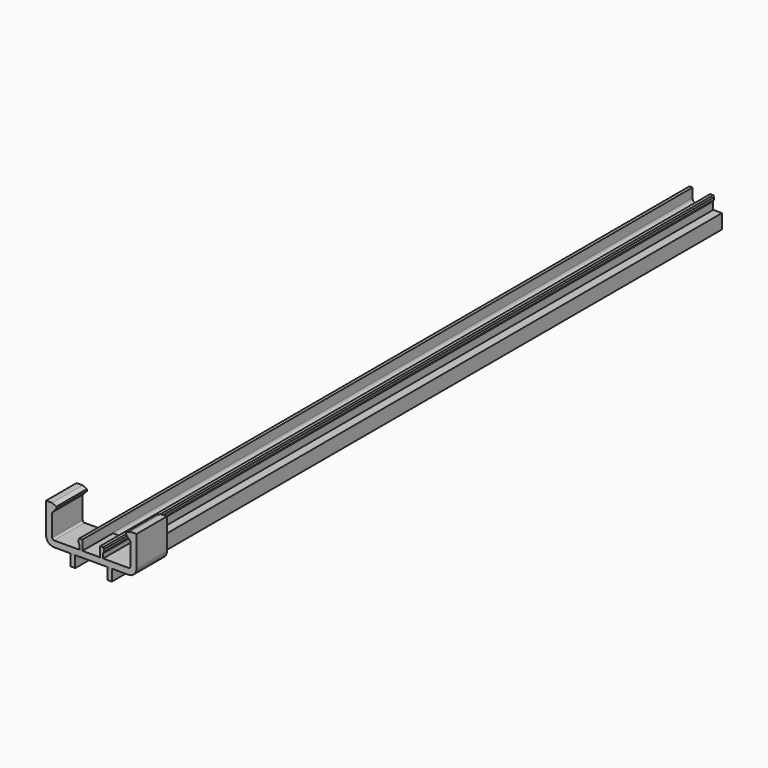
from build123d import *

# Parameters (mm, degrees)
PAD_DEPTH    = 12
CHAMFER_SIZE = 0.79
FILLET_R     = 1
PAD001_DEPTH = 200
PAD002_DEPTH = 10


with BuildPart() as plug:
    # Sketch003 → Pad (new body)
    with BuildSketch(Plane(origin=(0, 0, 0), x_dir=(-1, 0, 0), z_dir=(0, 1, 0))):
        with BuildLine():
            Line((-4.7, 0), (4.7, 0))
            Line((4.7, 0), (5.5, 0.8))
            Line((5.5, 0.8), (3.125, 0.8))
            Line((3.125, 0.8), (3.125, 2.8))
            Line((3.125, 2.8), (3.325, 3.2))
            Line((3.325, 3.2), (3.325, 3.8))
            Line((3.325, 3.8), (3.125, 4.2))
            Line((3.125, 4.2), (2.325, 4.2))
            Line((2.325, 4.2), (2.325, 1.8))
            ThreePointArc((1.325, 0.8), (2.032107, 1.092893), (2.325, 1.8))
            Line((1.325, 0.8), (-1.325, 0.8))
            ThreePointArc((-2.325, 1.8), (-2.032107, 1.092893), (-1.325, 0.8))
            Line((-2.325, 1.8), (-2.325, 4.2))
            Line((-2.325, 4.2), (-3.125, 4.2))
            Line((-3.125, 4.2), (-3.325, 3.8))
            Line((-3.325, 3.8), (-3.325, 3.2))
            Line((-3.325, 3.2), (-3.125, 2.8))
            Line((-3.125, 2.8), (-3.125, 0.8))
            Line((-3.125, 0.8), (-5.5, 0.8))
            Line((-5.5, 0.8), (-4.7, 0))
        make_face()
    extrude(amount=PAD_DEPTH)

    # Chamfer
    chamfer_edges = [plug.edges().sort_by_distance(p)[0] for p in [
        (0, 12, 0),
        (0, 0, 0),
    ]]
    chamfer(chamfer_edges, length=CHAMFER_SIZE)

    # Fillet
    fillet_edges = [plug.edges().sort_by_distance(p)[0] for p in [
        (5.095, 11.605, 0.395),
        (5.095, 0.395, 0.395),
        (-5.095, 11.605, 0.395),
        (-5.095, 0.395, 0.395),
    ]]
    fillet(fillet_edges, radius=FILLET_R)


with BuildPart() as ledclipbody:
    # Sketch001 → Pad001 (new body)
    with BuildSketch(Plane(origin=(0, 0, 0), x_dir=(-1, 0, 0), z_dir=(0, 1, 0))):
        with BuildLine():
            Line((5.4, 0.8), (3.125, 0.8))
            Line((3.125, 0.8), (3.125, 2.8))
            Line((3.125, 2.8), (3.325, 3.2))
            Line((3.325, 3.2), (3.325, 3.8))
            Line((3.325, 3.8), (3.125, 4.2))
            Line((3.125, 4.2), (2.325, 4.2))
            Line((2.325, 4.2), (2.325, 1.8))
            ThreePointArc((1.325, 0.8), (2.032107, 1.092893), (2.325, 1.8))
            Line((1.325, 0.8), (-1.325, 0.8))
            ThreePointArc((-2.325, 1.8), (-2.032107, 1.092893), (-1.325, 0.8))
            Line((-2.325, 1.8), (-2.325, 4.2))
            Line((-2.325, 4.2), (-3.125, 4.2))
            Line((-3.125, 4.2), (-3.325, 3.8))
            Line((-3.325, 3.8), (-3.325, 3.2))
            Line((-3.325, 3.2), (-3.125, 2.8))
            Line((-3.125, 2.8), (-3.125, 0.8))
            Line((-3.125, 0.8), (-5.4, 0.8))
            Line((-5.4, 0.8), (-5.4, -3))
            Line((-5.4, -3), (-4.2, -3))
            Line((-4.2, -3), (-4.2, 0))
            Line((-4.2, 0), (4.2, 0))
            Line((4.2, 0), (4.2, -3))
            Line((4.2, -3), (5.4, -3))
            Line((5.4, -3), (5.4, 0.8))
        make_face()
    extrude(amount=PAD001_DEPTH)


with BuildPart() as pad002body:
    # Sketch002 → Pad002 (new body)
    with BuildSketch(Plane(origin=(0, 0, 0), x_dir=(-1, 0, 0), z_dir=(0, 1, 0))):
        with BuildLine():
            Line((-10.25, 10.1), (-9.15, 9.6))
            Line((-9.15, 9.6), (-9.15, 9.1))
            Line((-9.15, 9.1), (-10.25, 7.9))
            Line((-10.25, 7.9), (-10.25, 2.1))
            ThreePointArc((-10.25, 2.1), (-10.103553, 1.746447), (-9.75, 1.6))
            Line((-9.75, 1.6), (9.75, 1.6))
            ThreePointArc((9.75, 1.6), (10.103553, 1.746447), (10.25, 2.1))
            Line((10.25, 2.1), (10.25, 7.9))
            Line((10.25, 7.9), (9.15, 9.1))
            Line((9.15, 9.1), (9.15, 9.6))
            Line((9.15, 9.6), (10.25, 10.1))
            Line((10.25, 10.1), (11.85, 10.1))
            Line((11.85, 10.1), (11.85, 2.1))
            ThreePointArc((9.75, 0), (11.234924, 0.615076), (11.85, 2.1))
            Line((-9.75, 0), (9.75, 0))
            ThreePointArc((-11.85, 2.1), (-11.234924, 0.615076), (-9.75, 0))
            Line((-11.85, 10.1), (-11.85, 2.1))
            Line((-11.85, 10.1), (-10.25, 10.1))
        make_face()
    extrude(amount=PAD002_DEPTH)


solid = Compound([plug.part, ledclipbody.part, pad002body.part])
